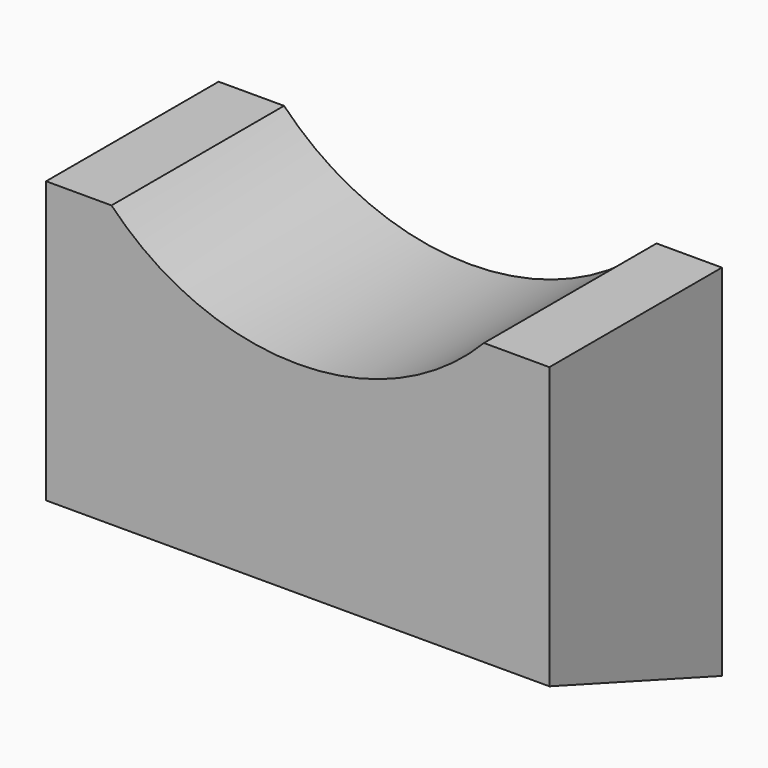
from build123d import *

# Parameters (mm, degrees)
F0_W     = 14
F0_H     = 6
F1_DEPTH = 10
F3_DEPTH = 25
F5_DEPTH = 25


with BuildPart() as f1:
    # F0 (on Top) → F1 (new body)
    with BuildSketch(Plane.XY):
        Rectangle(F0_W, F0_H)
    extrude(amount=F1_DEPTH)

    # F2 (on face) → F3 (cut)
    with BuildSketch(Plane.XZ.offset(3)):
        with BuildLine():
            ThreePointArc((5.180734, 10), (6.676125, 12.303825), (7.2, 15))
            ThreePointArc((7.2, 15), (-2.696175, 21.676125), (-5.180734, 10))
            Line((-5.180734, 10), (5.180734, 10))
        make_face()
        with BuildLine():
            Line((5.180734, 10), (-5.180734, 10))
            ThreePointArc((-5.180734, 10), (0, 7.8), (5.180734, 10))
        make_face()
    extrude(amount=-F3_DEPTH, mode=Mode.SUBTRACT)

    # F4 (on face) → F5 (cut)
    with BuildSketch(Plane(origin=(-7, 0, 0), x_dir=(0, -1, 0), z_dir=(-1, 0, 0))):
        Polygon((3, 2.183821), (-3, 0), (3, 0), align=None)
    extrude(amount=-F5_DEPTH, mode=Mode.SUBTRACT)


solid = f1.part
